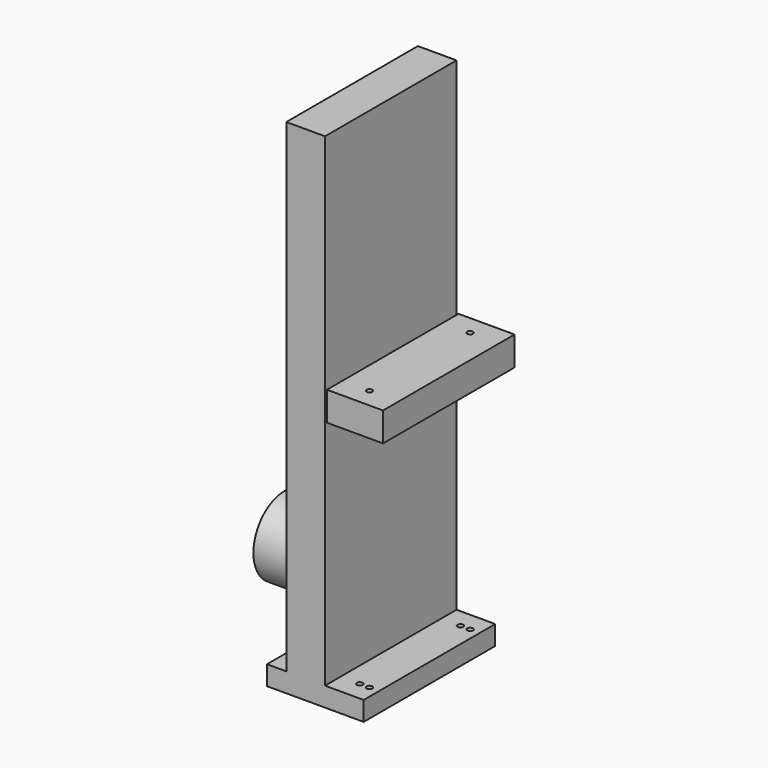
from build123d import *

# Parameters (mm, degrees)
F0_W           = 50
F0_H           = 85
F1_DEPTH       = 10
F2_W           = 20
F2_H           = 85
F3_DEPTH       = 250
F4_W           = 85
F4_H           = 15
F5_DEPTH       = 30
F9_D           = 3
F9_ON_F6_D     = 3
F9_ON_F8_D     = 3
F9_ON_F8_DEPTH = 10.001
F10_R          = 20
F11_DEPTH      = 35
F12_R          = 18.4780658122
F13_DEPTH      = 15
F14_W          = 1
F14_H          = 15
F15_DEPTH      = 85


with BuildPart() as f1:
    # F0 (on Top) → F1 (new body)
    with BuildSketch(Plane.XY):
        Rectangle(F0_W, F0_H)
    extrude(amount=F1_DEPTH)

    # F2 (on face) → F3 (join)
    with BuildSketch(Plane.XY.offset(10)):
        with Locations((-5, 0)):
            Rectangle(F2_W, F2_H)
    extrude(amount=F3_DEPTH)

    # F4 (on face) → F5 (join)
    with BuildSketch(Plane.YZ.offset(5)):
        with Locations((0, 137.5)):
            Rectangle(F4_W, F4_H)
    extrude(amount=F5_DEPTH)

    # F9 (through all)
    with Locations(Plane.XY.offset(145)):
        with Locations((20, 32.5), (20, -32.5)):
            Hole(F9_D / 2)

    # F9 on F6 (through all)
    with Locations(Plane.XY.offset(10)):
        with Locations((-20, 30.7627674192), (-20, -30.6603964418)):
            Hole(F9_ON_F6_D / 2)

    # F9 on F8 (through all, one way)
    with BuildSketch(Plane.XY.offset(10)):
        with Locations((15, -32.5), (15, 32.5)):
            Circle(F9_ON_F8_D / 2)
    extrude(amount=-F9_ON_F8_DEPTH, mode=Mode.SUBTRACT)

    # F10 (on face) → F11 (join)
    with BuildSketch(Plane(origin=(-15, 0, 0), x_dir=(0, -1, 0), z_dir=(-1, 0, 0))):
        with Locations((0, 43.3772418691)):
            Circle(F10_R)
    extrude(amount=F11_DEPTH)

    # F12 (on face) → F13 (join)
    with BuildSketch(Plane(origin=(-15, 0, 0), x_dir=(0, -1, 0), z_dir=(-1, 0, 0))):
        with Locations((0, 203.5892009735)):
            Circle(F12_R)
    extrude(amount=F13_DEPTH)

    # F14 (on face) → F15 (cut, through all)
    with BuildSketch(Plane.XZ.offset(42.5)):
        with Locations((5.5, 137.5)):
            Rectangle(F14_W, F14_H)
    extrude(amount=-F15_DEPTH, mode=Mode.SUBTRACT)


solid = f1.part
